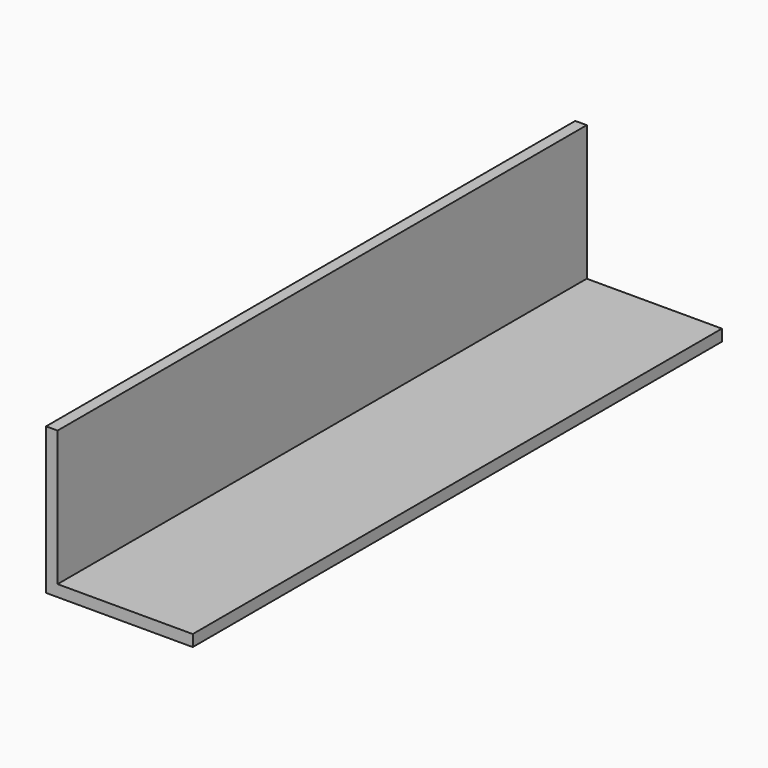
from build123d import *

# Parameters (mm, degrees)
PAD_DEPTH = 115


with BuildPart() as part:
    # Sketch → Pad (new body, symmetric)
    with BuildSketch(Plane.XZ):
        Polygon((0, 51), (0, 0), (51, 0), (51, 4), (4, 4), (4, 51), align=None)
    extrude(amount=PAD_DEPTH, both=True)


solid = part.part
